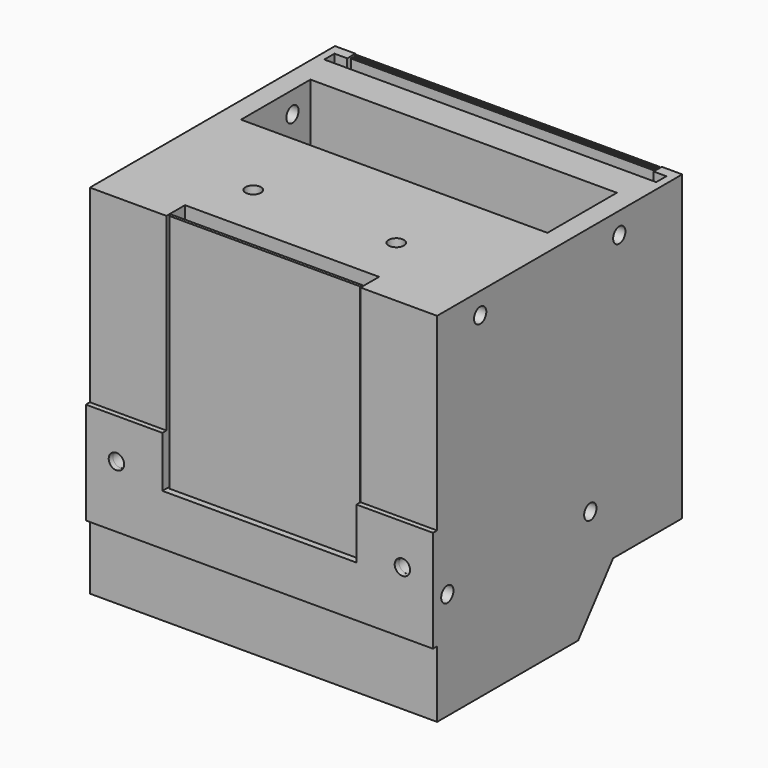
from build123d import *

# Parameters (mm, degrees)
BOX_W           = 68
BOX_H           = 60
BOX_DEPTH       = 70
SKETCH_R        = 1.51
POCKET_DEPTH    = 35
SKETCH001_W     = 65
SKETCH001_H     = 2.5
POCKET001_DEPTH = 2
SKETCH002_W     = 60
SKETCH002_H     = 17
POCKET002_DEPTH = 40
SKETCH003_W     = 38
SKETCH003_H     = 9.413655
POCKET003_DEPTH = 47
SKETCH004_R     = 1.51
POCKET004_DEPTH = 68.001
POCKET005_DEPTH = 68.001
SKETCH006_R     = 1.51
POCKET006_DEPTH = 10
PAD_DEPTH       = 10
CHAMFER001_SIZE = 5.5
SKETCH008_R     = 1.5
POCKET007_DEPTH = 68.001
SKETCH009_W     = 59.42001
SKETCH009_H     = 0.5
SKETCH009_W_2   = 59.338872
PAD001_DEPTH    = 35
SKETCH010_W     = 37.356884
SKETCH010_H     = 0.551608
PAD002_DEPTH    = 47
SKETCH011_R     = 1.5
POCKET008_DEPTH = 10
SKETCH012_R     = 1.51
PAD003_DEPTH    = 1


with BuildPart() as part:
    # Box → Box (new body)
    with BuildSketch(Plane(origin=(0, -2, 0), x_dir=(1, 0, 0), z_dir=(0, 0, 1))):
        with Locations((34, 30)):
            Rectangle(BOX_W, BOX_H)
    extrude(amount=BOX_DEPTH)


with BuildPart() as part_1:
    # BaseFeature placement: moved
    add(part.part.moved(Location((0, 2, 0))))

    # Sketch (on Face6 of BaseFeature) → Pocket (cut)
    with BuildSketch(Plane.XY.offset(70)):
        with Locations((20, 15)):
            Circle(SKETCH_R)
        with Locations((48, 15)):
            Circle(SKETCH_R)
        Polygon((1.5, 55.5), (66.5, 55.5), (66.5, 58), (64, 58), (64, 62.74518), (4, 62.74518), (4, 58), (1.5, 58), align=None)
    extrude(amount=-POCKET_DEPTH, mode=Mode.SUBTRACT)

    # Sketch001 (on Face16 of Pocket) → Pocket001 (cut)
    with BuildSketch(Plane.XY.offset(35)):
        with Locations((34, 56.75)):
            Rectangle(SKETCH001_W, SKETCH001_H)
    extrude(amount=-POCKET001_DEPTH, mode=Mode.SUBTRACT)

    # Sketch002 (on Face3 of Pocket001) → Pocket002 (cut)
    with BuildSketch(Plane.XY.offset(70)):
        with Locations((34, 40.5)):
            Rectangle(SKETCH002_W, SKETCH002_H)
    extrude(amount=-POCKET002_DEPTH, mode=Mode.SUBTRACT)

    # Sketch003 (on Face3 of Pocket002) → Pocket003 (cut)
    with BuildSketch(Plane.XY.offset(70)):
        with Locations((34, -0.162125)):
            Rectangle(SKETCH003_W, SKETCH003_H)
    extrude(amount=-POCKET003_DEPTH, mode=Mode.SUBTRACT)

    # Sketch004 (on Face1 of Pocket003) → Pocket004 (cut, through all)
    with BuildSketch(Plane(origin=(0, 0, 0), x_dir=(0, -1, 0), z_dir=(-1, 0, 0))):
        with Locations((-37.5, 21)):
            Circle(SKETCH004_R)
        with Locations((-2.5, 21)):
            Circle(SKETCH004_R)
    extrude(amount=-POCKET004_DEPTH, mode=Mode.SUBTRACT)

    # Sketch005 (on Face8 of Pocket004) → Pocket005 (cut, through all)
    with BuildSketch(Plane.YZ.offset(68)):
        Polygon((25.567, -11.191082), (76.135516, -11.191082), (76.135516, 10.70104), (43.079702, 10.70104), align=None)
    extrude(amount=-POCKET005_DEPTH, mode=Mode.SUBTRACT)

    # Sketch006 (on Face4 of Pocket005) → Pocket006 (cut)
    with BuildSketch(Plane(origin=(0, 0, 10.70104), x_dir=(1, 0, 0), z_dir=(0, 0, -1))):
        with Locations((19, -55.82514)):
            Circle(SKETCH006_R)
        with Locations((49, -55.82514)):
            Circle(SKETCH006_R)
    extrude(amount=-POCKET006_DEPTH, mode=Mode.SUBTRACT)

    # Sketch007 (on Face4 of Pocket006) → Pad (join)
    with BuildSketch(Plane(origin=(0, 0, 10.70104), x_dir=(1, 0, 0), z_dir=(0, 0, -1))):
        with BuildLine():
            ThreePointArc((11.5, -60), (34, -65.600118), (56.5, -60))
            Line((54.883537, -58.581185), (56.5, -60))
            Line((13.061421, -58.581185), (54.883537, -58.581185))
            Line((11.5, -60), (13.061421, -58.581185))
        make_face()
    extrude(amount=-PAD_DEPTH)

    # Chamfer001
    chamfer001_edges = [part_1.edges().sort_by_distance(p)[0] for p in [
        (34, 60, 20.70104),
    ]]
    chamfer(chamfer001_edges, length=CHAMFER001_SIZE)

    # Sketch008 (on Face8 of Chamfer001) → Pocket007 (cut, through all)
    with BuildSketch(Plane(origin=(0, 0, 0), x_dir=(0, -1, 0), z_dir=(-1, 0, 0))):
        with Locations((-44.590099, 65.813534)):
            Circle(SKETCH008_R)
        with Locations((-10.543741, 65.813534)):
            Circle(SKETCH008_R)
    extrude(amount=-POCKET007_DEPTH, mode=Mode.SUBTRACT)

    # Sketch009 (on Face1 of ReferenceChamfer002001) → Pad001 (join)
    with BuildSketch(Plane.XY.offset(35)):
        with Locations((34.071956, 59.544491)):
            Rectangle(SKETCH009_W, SKETCH009_H)
        with Locations((34.120748, 58.559672)):
            Rectangle(SKETCH009_W_2, SKETCH009_H)
    extrude(amount=PAD001_DEPTH)

    # Sketch010 (on Face49 of Pad001) → Pad002 (join)
    with BuildSketch(Plane.XY.offset(23)):
        with Locations((34.035056, 0.529754)):
            Rectangle(SKETCH010_W, SKETCH010_H)
    extrude(amount=PAD002_DEPTH)

    # Sketch011 (on Face17 of Pad002) → Pocket008 (cut)
    with BuildSketch(Plane.XZ):
        with Locations((6, 25.127343)):
            Circle(SKETCH011_R)
        with Locations((62, 25.127343)):
            Circle(SKETCH011_R)
    extrude(amount=-POCKET008_DEPTH, mode=Mode.SUBTRACT)

    # Sketch012 (on Face17 of Pocket008) → Pad003 (join)
    with BuildSketch(Plane.XZ):
        Polygon((0, 33), (15, 33), (15, 23), (53, 23), (53, 33), (68, 33), (68, 13.022348), (0, 13.022348), align=None)
        with Locations((6, 25.127343)):
            Circle(SKETCH012_R, mode=Mode.SUBTRACT)
        with Locations((62, 25.127343)):
            Circle(SKETCH012_R, mode=Mode.SUBTRACT)
    extrude(amount=PAD003_DEPTH)


solid = part_1.part
